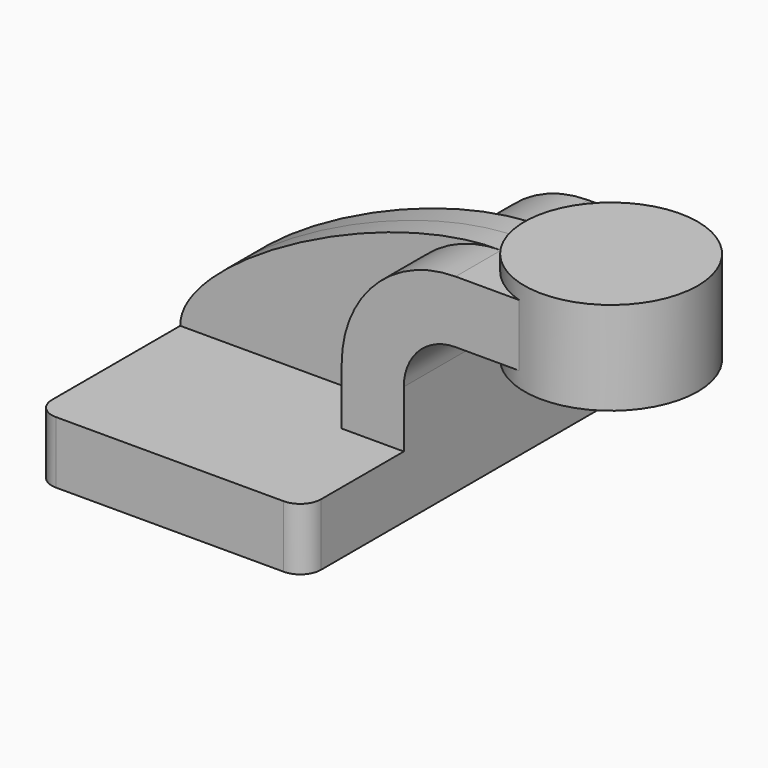
from build123d import *

# Parameters (mm, degrees)
F1_DEPTH = 63.5
F0_W     = 24.2118924779
F0_H     = 19.05
F2_DEPTH = 25.4
F3_DEPTH = 7.9375
F5_R     = 6.35


with BuildPart() as f1:
    # F0 (on Front) → F1 (new body, symmetric)
    with BuildSketch(Plane.XZ):
        Polygon((22.225, 9.525), (-41.275, 9.525), (-41.275, -9.525), (41.275, -9.525), (41.275, 9.525), align=None)
    extrude(amount=F1_DEPTH, both=True)

    # F0 (on Front) → F2 (join, symmetric)
    with BuildSketch(Plane.XZ):
        with BuildLine():
            Line((60.325, 42.8752), (60.325, 61.9252))
            Line((60.325, 61.9252), (57.15, 61.9252))
            ThreePointArc((57.15, 61.9252), (32.4542956671, 51.6959043329), (22.225, 27.0002))
            Line((22.225, 27.0002), (22.225, 9.525))
            Line((22.225, 9.525), (41.275, 9.525))
            Line((41.275, 9.525), (41.275, 27.0002))
            ThreePointArc((41.275, 27.0002), (45.9246798487, 38.2255201513), (57.15, 42.8752))
            Line((57.15, 42.8752), (60.325, 42.8752))
        make_face()
        with Locations((72.430946239, 52.4002)):
            Rectangle(F0_W, F0_H)
    extrude(amount=F2_DEPTH, both=True)

    # F0 (on Front) → F3 (join, symmetric)
    with BuildSketch(Plane.XZ):
        with BuildLine():
            ThreePointArc((22.225, 27.0002), (32.4542956671, 51.6959043329), (57.15, 61.9252))
            add(Edge.make_bspline(
                [(-41.275, 9.525), (-41.352327913, 28.8889557123), (19.8454335332, 62.4071657658), (57.15, 61.9252)],
                knots=[0, 0, 0, 0, 111.5045361635, 111.5045361635, 111.5045361635, 111.5045361635], degree=3))
            Line((-41.275, 9.525), (22.225, 9.525))
            Line((22.225, 9.525), (22.225, 27.0002))
        make_face()
    extrude(amount=F3_DEPTH, both=True)

    # F0 (on Front) → F4 (revolve)
    with BuildSketch(Plane.XZ):
        Polygon((111.125, 38.1), (111.125, 66.675), (84.5368924779, 66.675), (84.5368924779, 61.9252), (84.5368924779, 42.8752), (84.5368924779, 38.1), align=None)
    revolve(axis=Axis((84.5368924779, 0, 52.3875), (0, 0, 1)))

    # F5
    f5_edges = [f1.edges().sort_by_distance(p)[0] for p in [
        (-41.275, -63.5, 0),
        (41.275, -63.5, 0),
        (41.275, 63.5, 0),
        (-41.275, 63.5, 0),
    ]]
    fillet(f5_edges, radius=F5_R)


solid = f1.part
